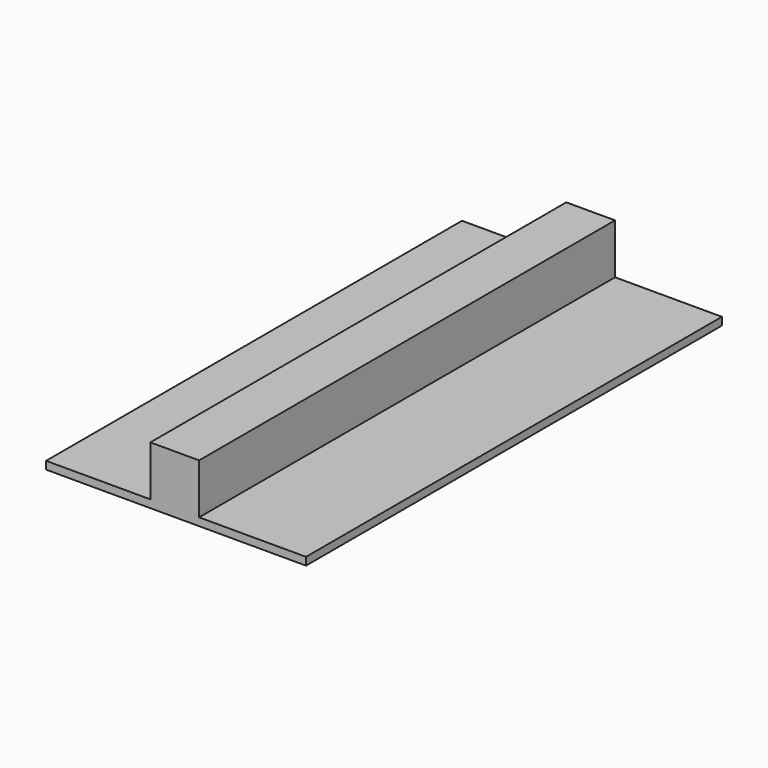
from build123d import *

# Parameters (mm, degrees)
F0_W     = 114.3
F0_H     = 117.602
F1_DEPTH = 609.6


with BuildPart() as f1:
    # F0 (on Front) → F1 (new body, symmetric)
    with BuildSketch(Plane.XZ):
        with Locations((-3.048, 77.05725)):
            Rectangle(F0_W, F0_H)
        Polygon((-60.198, 18.25625), (-304.8, 18.25625), (-304.8, 0), (304.8, 0), (304.8, 11.90625), (304.8, 18.25625), (54.102, 18.25625), align=None)
    extrude(amount=F1_DEPTH, both=True)


solid = f1.part
